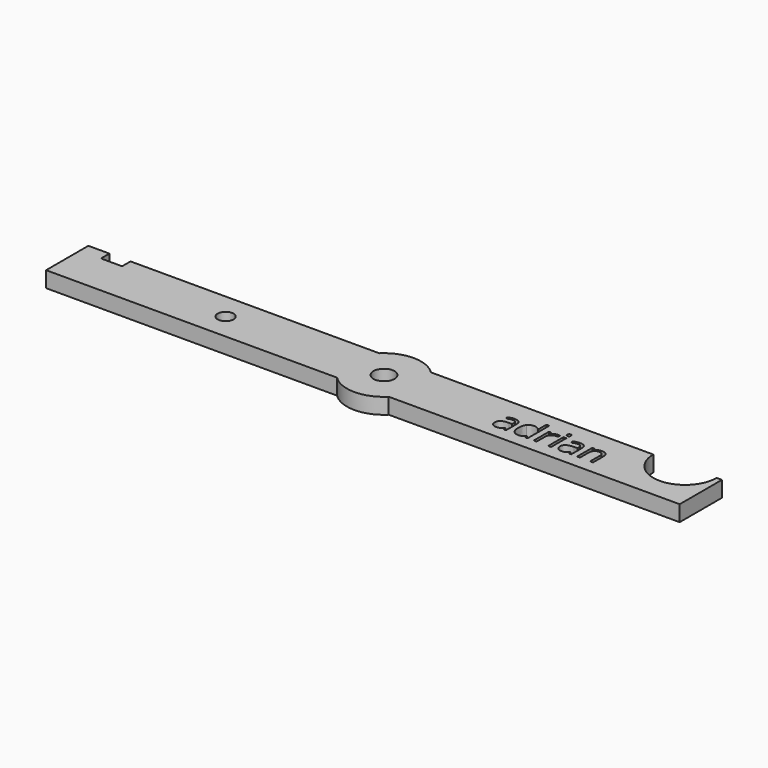
from build123d import *

# Parameters (mm, degrees)
F0_R     = 1.5
F0_R_2   = 2
F0_W     = 0.5472422647
F0_H     = 3.6113771804
F1_DEPTH = 3


with BuildPart() as f1:
    # F0 (on Top) → F1 (new body)
    with BuildSketch(Plane.XY):
        with BuildLine():
            Line((-60, 5), (-60, -5))
            Line((-60, -5), (-4.8989794856, -5))
            ThreePointArc((-4.8989794856, -5), (-7, 0), (-4.8989794856, 5))
            Line((-4.8989794856, 5), (-52, 5))
            Line((-52, 5), (-52, 3))
            Line((-52, 3), (-56, 3))
            Line((-56, 3), (-56, 5))
            Line((-56, 5), (-60, 5))
        make_face()
        with Locations((-30, 0)):
            Circle(F0_R, mode=Mode.SUBTRACT)
        with BuildLine():
            ThreePointArc((-4.8989794856, 5), (-7, 0), (-4.8989794856, -5))
            Line((-4.8989794856, -5), (4.8989794856, -5))
            ThreePointArc((4.8989794856, -5), (6.4534043883, -2.7117470016), (7, 0))
            ThreePointArc((7, 0), (6.4534043883, 2.7117470016), (4.8989794856, 5))
            Line((4.8989794856, 5), (-4.8989794856, 5))
        make_face()
        Circle(F0_R_2, mode=Mode.SUBTRACT)
        with BuildLine():
            ThreePointArc((4.8989794856, 5), (0, 7), (-4.8989794856, 5))
            Line((-4.8989794856, 5), (4.8989794856, 5))
        make_face()
        with BuildLine():
            Line((4.8989794856, -5), (-4.8989794856, -5))
            ThreePointArc((-4.8989794856, -5), (0, -7), (4.8989794856, -5))
        make_face()
        with BuildLine():
            ThreePointArc((7, 0), (6.4534043883, -2.7117470016), (4.8989794856, -5))
            Line((4.8989794856, -5), (60, -5))
            Line((60, -5), (60, 5))
            Line((60, 5), (59, 5))
            ThreePointArc((59, 5), (53, -1), (47, 5))
            Line((47, 5), (4.8989794856, 5))
            ThreePointArc((4.8989794856, 5), (6.4534043883, 2.7117470016), (7, 0))
        make_face()
        with BuildLine():
            Line((25.1401150036, -2.5613930775), (24.734164576, -2.5613930775))
            Line((24.734164576, -2.5613930775), (24.6255596564, -2.0468377303))
            Line((24.6255596564, -2.0468377303), (24.5991992391, -2.0468377303))
            add(Edge.make_bspline(
                [(24.5991992391, -2.0468377303), (24.3292685651, -2.3863599061), (24.0609195163, -2.5070906177)],
                knots=[0, 0, 0, 1, 1, 1], degree=2))
            add(Edge.make_bspline(
                [(24.0609195163, -2.5070906177), (23.7925704674, -2.6278213293), (23.3897832899, -2.6278213293)],
                knots=[0, 0, 0, 1, 1, 1], degree=2))
            add(Edge.make_bspline(
                [(23.3897832899, -2.6278213293), (22.8530851922, -2.6278213293), (22.5483587673, -2.3505097385)],
                knots=[0, 0, 0, 1, 1, 1], degree=2))
            add(Edge.make_bspline(
                [(22.5483587673, -2.3505097385), (22.2436323425, -2.0731981477), (22.2436323425, -1.5628604673)],
                knots=[0, 0, 0, 1, 1, 1], degree=2))
            add(Edge.make_bspline(
                [(22.2436323425, -1.5628604673), (22.2436323425, -0.4694303546), (23.9929096394, -0.4167095199)],
                knots=[0, 0, 0, 1, 1, 1], degree=2))
            Line((23.9929096394, -0.4167095199), (24.6055257392, -0.3966756027))
            Line((24.6055257392, -0.3966756027), (24.6055257392, -0.1720848466))
            add(Edge.make_bspline(
                [(24.6055257392, -0.1720848466), (24.6055257392, 0.2528450815), (24.423111651, 0.4552930869)],
                knots=[0, 0, 0, 1, 1, 1], degree=2))
            add(Edge.make_bspline(
                [(24.423111651, 0.4552930869), (24.2406975628, 0.6577410923), (23.8379103853, 0.6577410923)],
                knots=[0, 0, 0, 1, 1, 1], degree=2))
            add(Edge.make_bspline(
                [(23.8379103853, 0.6577410923), (23.3866200398, 0.6577410923), (22.8172350245, 0.3814839182)],
                knots=[0, 0, 0, 1, 1, 1], degree=2))
            Line((22.8172350245, 0.3814839182), (22.6485283533, 0.8000873462))
            add(Edge.make_bspline(
                [(22.6485283533, 0.8000873462), (22.9152957772, 0.9445424334), (23.2332024107, 1.0267869356)],
                knots=[0, 0, 0, 1, 1, 1], degree=2))
            add(Edge.make_bspline(
                [(23.2332024107, 1.0267869356), (23.5511090442, 1.1090314378), (23.8716517195, 1.1090314378)],
                knots=[0, 0, 0, 1, 1, 1], degree=2))
            add(Edge.make_bspline(
                [(23.8716517195, 1.1090314378), (24.5169547369, 1.1090314378), (24.8285348702, 0.8227573051)],
                knots=[0, 0, 0, 1, 1, 1], degree=2))
            add(Edge.make_bspline(
                [(24.8285348702, 0.8227573051), (25.1401150036, 0.5364831724), (25.1401150036, -0.0961668446)],
                knots=[0, 0, 0, 1, 1, 1], degree=2))
            Line((25.1401150036, -0.0961668446), (25.1401150036, -2.5613930775))
        make_face(mode=Mode.SUBTRACT)
        with BuildLine():
            Line((28.7968321018, -2.5613930775), (28.7240773499, -2.0774158145))
            Line((28.7240773499, -2.0774158145), (28.6945536824, -2.0774158145))
            add(Edge.make_bspline(
                [(28.6945536824, -2.0774158145), (28.3160180889, -2.6278213293), (27.5610557353, -2.6278213293)],
                knots=[0, 0, 0, 1, 1, 1], degree=2))
            add(Edge.make_bspline(
                [(27.5610557353, -2.6278213293), (26.8524877163, -2.6278213293), (26.4586630807, -2.1433168579)],
                knots=[0, 0, 0, 1, 1, 1], degree=2))
            add(Edge.make_bspline(
                [(26.4586630807, -2.1433168579), (26.0648384451, -1.6588123866), (26.0648384451, -0.7657214459)],
                knots=[0, 0, 0, 1, 1, 1], degree=2))
            add(Edge.make_bspline(
                [(26.0648384451, -0.7657214459), (26.0648384451, 0.1273694947), (26.4602447057, 0.6218909247)],
                knots=[0, 0, 0, 1, 1, 1], degree=2))
            add(Edge.make_bspline(
                [(26.4602447057, 0.6218909247), (26.8556509664, 1.1164123547), (27.5610557353, 1.1164123547)],
                knots=[0, 0, 0, 1, 1, 1], degree=2))
            add(Edge.make_bspline(
                [(27.5610557353, 1.1164123547), (28.2959841717, 1.1164123547), (28.6882271823, 0.5818230903)],
                knots=[0, 0, 0, 1, 1, 1], degree=2))
            Line((28.6882271823, 0.5818230903), (28.7314582667, 0.5818230903))
            Line((28.7314582667, 0.5818230903), (28.7082610995, 0.842264014))
            Line((28.7082610995, 0.842264014), (28.6945536824, 1.0963784374))
            Line((28.6945536824, 1.0963784374), (28.6945536824, 2.5662353103))
            Line((28.6945536824, 2.5662353103), (29.2417959471, 2.5662353103))
            Line((29.2417959471, 2.5662353103), (29.2417959471, -2.5613930775))
            Line((29.2417959471, -2.5613930775), (28.7968321018, -2.5613930775))
        make_face(mode=Mode.SUBTRACT)
        with BuildLine():
            add(Edge.make_bspline(
                [(31.4265473392, 0.9250357245), (31.7101854301, 1.1164123547), (32.0497076059, 1.1164123547)],
                knots=[0, 0, 0, 1, 1, 1], degree=2))
            add(Edge.make_bspline(
                [(32.0497076059, 1.1164123547), (32.2901146124, 1.1164123547), (32.4809640341, 1.0763445202)],
                knots=[0, 0, 0, 1, 1, 1], degree=2))
            Line((32.4809640341, 1.0763445202), (32.4050460321, 0.56917009))
            add(Edge.make_bspline(
                [(32.4050460321, 0.56917009), (32.1815096928, 0.6187276746), (32.0096397715, 0.6187276746)],
                knots=[0, 0, 0, 1, 1, 1], degree=2))
            add(Edge.make_bspline(
                [(32.0096397715, 0.6187276746), (31.5710024264, 0.6187276746), (31.2599495013, 0.2628620401)],
                knots=[0, 0, 0, 1, 1, 1], degree=2))
            add(Edge.make_bspline(
                [(31.2599495013, 0.2628620401), (30.9488965763, -0.0930035945), (30.9488965763, -0.6233751921)],
                knots=[0, 0, 0, 1, 1, 1], degree=2))
            Line((30.9488965763, -0.6233751921), (30.9488965763, -2.5613930775))
            Line((30.9488965763, -2.5613930775), (30.4016543116, -2.5613930775))
            Line((30.4016543116, -2.5613930775), (30.4016543116, 1.0499841029))
            Line((30.4016543116, 1.0499841029), (30.8529446571, 1.0499841029))
            Line((30.8529446571, 1.0499841029), (30.9162096588, 0.3814839182))
            Line((30.9162096588, 0.3814839182), (30.9425700761, 0.3814839182))
            add(Edge.make_bspline(
                [(30.9425700761, 0.3814839182), (31.1429092482, 0.7336590944), (31.4265473392, 0.9250357245)],
                knots=[0, 0, 0, 1, 1, 1], degree=2))
        make_face(mode=Mode.SUBTRACT)
        with Locations((33.430466268, -0.7557044873)):
            Rectangle(F0_W, F0_H, mode=Mode.SUBTRACT)
        with BuildLine():
            Line((37.4904977521, -2.5613930775), (37.0845473245, -2.5613930775))
            Line((37.0845473245, -2.5613930775), (36.9759424049, -2.0468377303))
            Line((36.9759424049, -2.0468377303), (36.9495819875, -2.0468377303))
            add(Edge.make_bspline(
                [(36.9495819875, -2.0468377303), (36.6796513136, -2.3863599061), (36.4113022647, -2.5070906177)],
                knots=[0, 0, 0, 1, 1, 1], degree=2))
            add(Edge.make_bspline(
                [(36.4113022647, -2.5070906177), (36.1429532159, -2.6278213293), (35.7401660384, -2.6278213293)],
                knots=[0, 0, 0, 1, 1, 1], degree=2))
            add(Edge.make_bspline(
                [(35.7401660384, -2.6278213293), (35.2034679406, -2.6278213293), (34.8987415158, -2.3505097385)],
                knots=[0, 0, 0, 1, 1, 1], degree=2))
            add(Edge.make_bspline(
                [(34.8987415158, -2.3505097385), (34.5940150909, -2.0731981477), (34.5940150909, -1.5628604673)],
                knots=[0, 0, 0, 1, 1, 1], degree=2))
            add(Edge.make_bspline(
                [(34.5940150909, -1.5628604673), (34.5940150909, -0.4694303546), (36.3432923879, -0.4167095199)],
                knots=[0, 0, 0, 1, 1, 1], degree=2))
            Line((36.3432923879, -0.4167095199), (36.9559084877, -0.3966756027))
            Line((36.9559084877, -0.3966756027), (36.9559084877, -0.1720848466))
            add(Edge.make_bspline(
                [(36.9559084877, -0.1720848466), (36.9559084877, 0.2528450815), (36.7734943995, 0.4552930869)],
                knots=[0, 0, 0, 1, 1, 1], degree=2))
            add(Edge.make_bspline(
                [(36.7734943995, 0.4552930869), (36.5910803112, 0.6577410923), (36.1882931337, 0.6577410923)],
                knots=[0, 0, 0, 1, 1, 1], degree=2))
            add(Edge.make_bspline(
                [(36.1882931337, 0.6577410923), (35.7370027883, 0.6577410923), (35.167617773, 0.3814839182)],
                knots=[0, 0, 0, 1, 1, 1], degree=2))
            Line((35.167617773, 0.3814839182), (34.9989111018, 0.8000873462))
            add(Edge.make_bspline(
                [(34.9989111018, 0.8000873462), (35.2656785256, 0.9445424334), (35.5835851592, 1.0267869356)],
                knots=[0, 0, 0, 1, 1, 1], degree=2))
            add(Edge.make_bspline(
                [(35.5835851592, 1.0267869356), (35.9014917927, 1.1090314378), (36.222034468, 1.1090314378)],
                knots=[0, 0, 0, 1, 1, 1], degree=2))
            add(Edge.make_bspline(
                [(36.222034468, 1.1090314378), (36.8673374853, 1.1090314378), (37.1789176187, 0.8227573051)],
                knots=[0, 0, 0, 1, 1, 1], degree=2))
            add(Edge.make_bspline(
                [(37.1789176187, 0.8227573051), (37.4904977521, 0.5364831724), (37.4904977521, -0.0961668446)],
                knots=[0, 0, 0, 1, 1, 1], degree=2))
            Line((37.4904977521, -0.0961668446), (37.4904977521, -2.5613930775))
        make_face(mode=Mode.SUBTRACT)
        with BuildLine():
            Line((41.6354097801, -2.5613930775), (41.0881675154, -2.5613930775))
            Line((41.0881675154, -2.5613930775), (41.0881675154, -0.2248056814))
            add(Edge.make_bspline(
                [(41.0881675154, -0.2248056814), (41.0881675154, 0.2159404971), (40.887301135, 0.4336775446)],
                knots=[0, 0, 0, 1, 1, 1], degree=2))
            add(Edge.make_bspline(
                [(40.887301135, 0.4336775446), (40.6864347546, 0.6514145922), (40.2572871597, 0.6514145922)],
                knots=[0, 0, 0, 1, 1, 1], degree=2))
            add(Edge.make_bspline(
                [(40.2572871597, 0.6514145922), (39.6910653945, 0.6514145922), (39.4274612208, 0.3451065423)],
                knots=[0, 0, 0, 1, 1, 1], degree=2))
            add(Edge.make_bspline(
                [(39.4274612208, 0.3451065423), (39.163857047, 0.0387984924), (39.163857047, -0.6666062766)],
                knots=[0, 0, 0, 1, 1, 1], degree=2))
            Line((39.163857047, -0.6666062766), (39.163857047, -2.5613930775))
            Line((39.163857047, -2.5613930775), (38.6166147823, -2.5613930775))
            Line((38.6166147823, -2.5613930775), (38.6166147823, 1.0499841029))
            Line((38.6166147823, 1.0499841029), (39.0615786276, 1.0499841029))
            Line((39.0615786276, 1.0499841029), (39.15014963, 0.5554626729))
            Line((39.15014963, 0.5554626729), (39.1765100474, 0.5554626729))
            add(Edge.make_bspline(
                [(39.1765100474, 0.5554626729), (39.3452167186, 0.8222300967), (39.6483615184, 0.9693212257)],
                knots=[0, 0, 0, 1, 1, 1], degree=2))
            add(Edge.make_bspline(
                [(39.6483615184, 0.9693212257), (39.9515063182, 1.1164123547), (40.3237154115, 1.1164123547)],
                knots=[0, 0, 0, 1, 1, 1], degree=2))
            add(Edge.make_bspline(
                [(40.3237154115, 1.1164123547), (40.9763993457, 1.1164123547), (41.3059045629, 0.8016689712)],
                knots=[0, 0, 0, 1, 1, 1], degree=2))
            add(Edge.make_bspline(
                [(41.3059045629, 0.8016689712), (41.6354097801, 0.4869255877), (41.6354097801, -0.2058261809)],
                knots=[0, 0, 0, 1, 1, 1], degree=2))
            Line((41.6354097801, -0.2058261809), (41.6354097801, -2.5613930775))
        make_face(mode=Mode.SUBTRACT)
        with BuildLine():
            add(Edge.make_bspline(
                [(33.2027122619, 1.7532800384), (33.1104508011, 1.8439598742), (33.1104508011, 2.0284827958)],
                knots=[0, 0, 0, 1, 1, 1], degree=2))
            add(Edge.make_bspline(
                [(33.1104508011, 2.0284827958), (33.1104508011, 2.2161689675), (33.2027122619, 2.3036855532)],
                knots=[0, 0, 0, 1, 1, 1], degree=2))
            add(Edge.make_bspline(
                [(33.2027122619, 2.3036855532), (33.2949737227, 2.3912021389), (33.4341567264, 2.3912021389)],
                knots=[0, 0, 0, 1, 1, 1], degree=2))
            add(Edge.make_bspline(
                [(33.4341567264, 2.3912021389), (33.5659588133, 2.3912021389), (33.6613835242, 2.3021039282)],
                knots=[0, 0, 0, 1, 1, 1], degree=2))
            add(Edge.make_bspline(
                [(33.6613835242, 2.3021039282), (33.7568082351, 2.2130057174), (33.7568082351, 2.0284827958)],
                knots=[0, 0, 0, 1, 1, 1], degree=2))
            add(Edge.make_bspline(
                [(33.7568082351, 2.0284827958), (33.7568082351, 1.8439598742), (33.6613835242, 1.7532800384)],
                knots=[0, 0, 0, 1, 1, 1], degree=2))
            add(Edge.make_bspline(
                [(33.6613835242, 1.7532800384), (33.5659588133, 1.6626002027), (33.4341567264, 1.6626002027)],
                knots=[0, 0, 0, 1, 1, 1], degree=2))
            add(Edge.make_bspline(
                [(33.4341567264, 1.6626002027), (33.2949737227, 1.6626002027), (33.2027122619, 1.7532800384)],
                knots=[0, 0, 0, 1, 1, 1], degree=2))
        make_face(mode=Mode.SUBTRACT)
    extrude(amount=F1_DEPTH)


solid = f1.part
